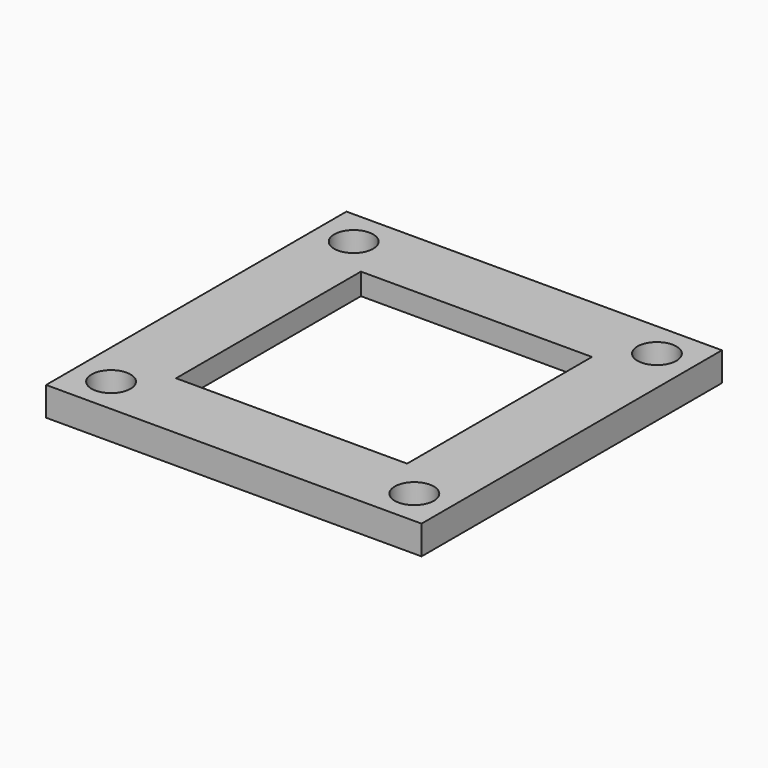
from build123d import *

# Parameters (mm, degrees)
F0_W     = 26
F0_H     = 26
F0_W_2   = 18
F0_H_2   = 18
F0_W_3   = 16
F0_H_3   = 16
F1_DEPTH = 2
F2_DEPTH = 0.5
F4_D     = 2.7
F4_DEPTH = 3.5
F4_TIP   = 0.8111618357


with BuildPart() as f1:
    # F0 (on Top) → F1 (new body)
    with BuildSketch(Plane.XY):
        Rectangle(F0_W, F0_H)
        Rectangle(F0_W_2, F0_H_2, mode=Mode.SUBTRACT)
        Rectangle(F0_W_2, F0_H_2)
        Rectangle(F0_W_3, F0_H_3, mode=Mode.SUBTRACT)
    extrude(amount=F1_DEPTH)

    # F0 (on Top) → F2 (cut)
    with BuildSketch(Plane.XY):
        Rectangle(F0_W_2, F0_H_2)
        Rectangle(F0_W_3, F0_H_3, mode=Mode.SUBTRACT)
    extrude(amount=F2_DEPTH, mode=Mode.SUBTRACT)

    # F4
    with Locations(Plane(origin=(0, 0, 0), x_dir=(1, 0, 0), z_dir=(0, 0, -1))):
        with Locations((-10.5, 10.5), (10.5, 10.5), (10.5, -10.5), (-10.5, -10.5)):
            Hole(F4_D / 2, depth=F4_DEPTH)
            with Locations((0, 0, -(F4_DEPTH + F4_TIP / 2))):  # 118° drill point
                Cone(0, F4_D / 2, F4_TIP, mode=Mode.SUBTRACT)


solid = f1.part
